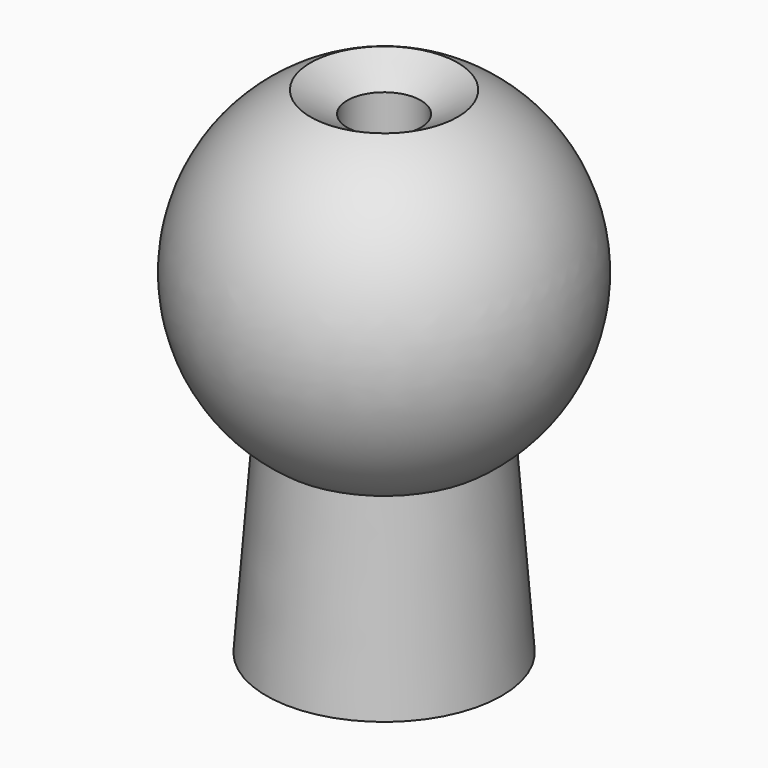
from build123d import *

# Parameters (mm, degrees)
SKETCH001_R  = 2.5
POCKET_DEPTH = 33.656506


with BuildPart() as part:
    # Sketch → Revolution (revolve)
    with BuildSketch(Plane.XZ):
        with BuildLine():
            Line((0, 0), (8, 0))
            Line((8, 0), (7, 13))
            ThreePointArc((7, 13), (11.94414, 23.903303), (5, 33.655506))
            Line((0, 30.768755), (5, 33.655506))
            Line((0, 30.768755), (0, 0))
        make_face()
    revolve(axis=Axis((0, 0, 0), (0, 0, 1)))

    # Sketch001 (on Face1 of Revolution) → Pocket (cut, through all)
    with BuildSketch(Plane(origin=(0, 0, 0), x_dir=(1, 0, 0), z_dir=(0, 0, -1))):
        Circle(SKETCH001_R)
    extrude(amount=-POCKET_DEPTH, mode=Mode.SUBTRACT)


solid = part.part
